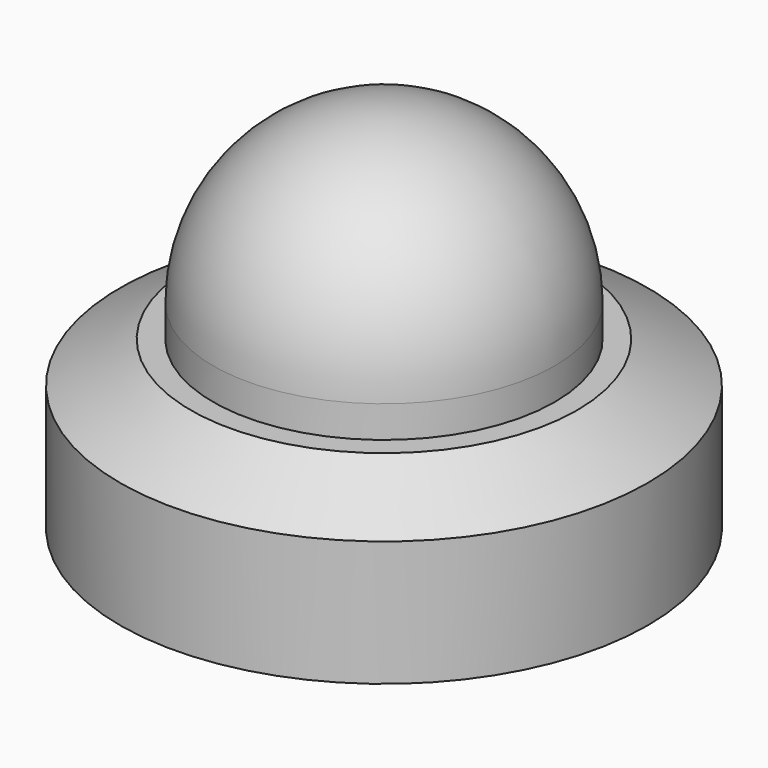
from build123d import *

# Parameters (mm, degrees)
F2_SIZE2 = 19.797341
F2_SIZE  = 11.43


with BuildPart() as f1:
    # F0 (on Front) → F1 (revolve)
    with BuildSketch(Plane.XZ):
        with BuildLine():
            Line((0, 103.124), (0, 0))
            Line((0, 0), (73.787, 0))
            Line((73.787, 0), (73.787, 46.482))
            Line((73.787, 46.482), (47.752, 46.482))
            Line((47.752, 46.482), (47.752, 55.372))
            ThreePointArc((47.752, 55.372), (33.765763, 89.137763), (0, 103.124))
        make_face()
    revolve(axis=Axis((0, 0, 51.562), (0, 0, 1)))

    # F2
    f2_edges = [f1.edges().sort_by_distance(p)[0] for p in [
        (-73.787, 0, 46.482),
    ]]
    chamfer(f2_edges, length=F2_SIZE, length2=F2_SIZE2)


solid = f1.part
